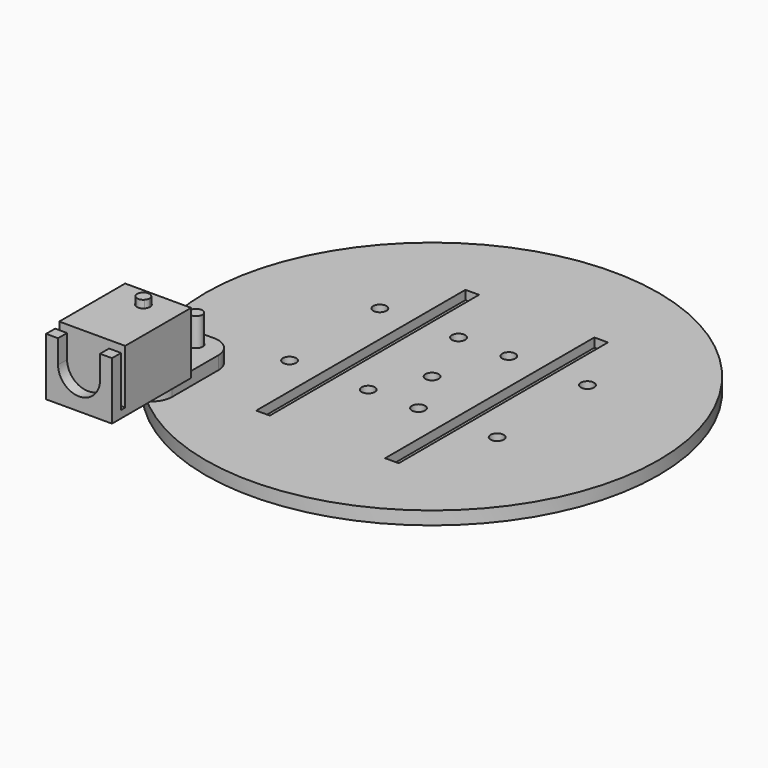
from build123d import *

# Parameters (mm, degrees)
F0_R      = 55
F0_R_2    = 1.6
F0_W      = 3.3
F0_H      = 63.5
F1_DEPTH  = 3.2
F2_DEPTH  = 1
F3_R      = 1.5
F4_DEPTH  = 10
F5_R      = 1.6
F6_DEPTH  = 3.2
F7_R      = 5
F9_DEPTH  = 20
F10_R     = 1.6
F11_DEPTH = 15
F13_DEPTH = 25
F14_R     = 1.6
F15_DEPTH = 8
F17_DEPTH = 2.75


with BuildPart() as f1:
    # F0 (on Top) → F1 (new body)
    with BuildSketch(Plane.XY):
        with Locations((39.351791, 117.438398)):
            Circle(F0_R)
        with Locations((0, 95.013872)):
            Circle(F0_R_2, mode=Mode.SUBTRACT)
        with Locations((23.701791, 117.438398)):
            Rectangle(F0_W, F0_H, mode=Mode.SUBTRACT)
        with Locations((39.351791, 117.438398)):
            Circle(F0_R_2, mode=Mode.SUBTRACT)
        with Locations((55.001791, 117.438398)):
            Rectangle(F0_W, F0_H, mode=Mode.SUBTRACT)
    extrude(amount=F1_DEPTH)

    # F0 (on Top) → F2 (join)
    with BuildSketch(Plane.XY):
        with Locations((23.701791, 117.438398)):
            Rectangle(F0_W, F0_H)
        with Locations((55.001791, 117.438398)):
            Rectangle(F0_W, F0_H)
    extrude(amount=F2_DEPTH)

    # F14 (on face) → F15 (cut)
    with BuildSketch(Plane.XY.offset(3.2)):
        with Locations((64.551791, 105.688398)):
            Circle(F14_R)
        with Locations((64.551791, 133.088398)):
            Circle(F14_R)
        with Locations((45.451791, 133.088398)):
            Circle(F14_R)
        with Locations((45.451791, 105.688398)):
            Circle(F14_R)
        with Locations((33.251791, 105.688398)):
            Circle(F14_R)
        with Locations((33.251791, 133.088398)):
            Circle(F14_R)
        with Locations((14.151791, 133.088398)):
            Circle(F14_R)
        with Locations((14.151791, 105.688398)):
            Circle(F14_R)
    extrude(amount=-F15_DEPTH, mode=Mode.SUBTRACT)


with BuildPart() as f4:
    # F3 (on face) → F4 (new body)
    with BuildSketch(Plane.XY.offset(3.2)):
        with Locations((0, 95.013872)):
            Circle(F3_R)
    extrude(amount=F4_DEPTH)


with BuildPart() as f6:
    # F5 (on face) → F6 (new body)
    with BuildSketch(Plane.XY.offset(3.2)):
        with BuildLine():
            ThreePointArc((-1.101032, 80.174889), (-3.605473, 83.092024), (-5.9, 86.176994))
            Line((-5.9, 86.176994), (-5.9, 75.113872))
            Line((-5.9, 75.113872), (4.228658, 75.113872))
            ThreePointArc((4.228658, 75.113872), (2.655319, 76.470497), (1.134335, 77.885573))
            ThreePointArc((1.134335, 77.885573), (-1.144779, 77.896171), (-1.101032, 80.174889))
        make_face()
        with BuildLine():
            Line((6.1, 99.113872), (-5.9, 99.113872))
            Line((-5.9, 99.113872), (-5.9, 86.176994))
            ThreePointArc((-5.9, 86.176994), (-3.605473, 83.092024), (-1.101032, 80.174889))
            ThreePointArc((-1.101032, 80.174889), (0.631803, 80.483947), (1.6, 79.013972))
            ThreePointArc((1.6, 79.013972), (1.479009, 78.403618), (1.134335, 77.885573))
            ThreePointArc((1.134335, 77.885573), (2.655319, 76.470497), (4.228658, 75.113872))
            Line((4.228658, 75.113872), (6.1, 75.113872))
            Line((6.1, 75.113872), (6.1, 99.113872))
        make_face()
        with Locations((0, 95.013872)):
            Circle(F5_R, mode=Mode.SUBTRACT)
    extrude(amount=F6_DEPTH)

    # F7
    f7_edges = [f6.edges().sort_by_distance(p)[0] for p in [
        (-5.9, 99.113872, 4.8),
        (6.1, 99.113872, 4.8),
        (6.1, 75.113872, 4.8),
        (-5.9, 75.113872, 4.8),
    ]]
    fillet(f7_edges, radius=F7_R)


with BuildPart() as f9:
    # F8 (on face) → F9 (new body)
    with BuildSketch(Plane.XY.offset(3.2)):
        with BuildLine():
            ThreePointArc((1.061891, 77.955699), (1.385737, 78.441707), (1.499431, 79.014555))
            ThreePointArc((1.499431, 79.014555), (0.591129, 80.392921), (-1.03376, 80.101991))
            ThreePointArc((-1.03376, 80.101991), (-0.000569, 79.014555), (1.061891, 77.955699))
        make_face()
        with BuildLine():
            ThreePointArc((1.061891, 77.955699), (-0.000569, 79.014555), (-1.03376, 80.101991))
            ThreePointArc((-1.03376, 80.101991), (-1.073815, 77.966632), (1.061891, 77.955699))
        make_face()
    extrude(amount=F9_DEPTH)


with BuildPart() as f11:
    # F10 (on face) → F11 (new body)
    with BuildSketch(Plane.XY.offset(6.4)):
        with BuildLine():
            Line((-5.9, 83.613972), (-8.1, 83.613972))
            Line((-8.1, 83.613972), (-8.1, 59.613972))
            Line((-8.1, 59.613972), (7.9, 59.613972))
            Line((7.9, 59.613972), (7.9, 83.613972))
            Line((7.9, 83.613972), (6.1, 83.613972))
            Line((6.1, 83.613972), (6.1, 80.113872))
            ThreePointArc((6.1, 80.113872), (4.635534, 76.578338), (1.1, 75.113872))
            Line((1.1, 75.113872), (-0.9, 75.113872))
            ThreePointArc((-0.9, 75.113872), (-4.435534, 76.578338), (-5.9, 80.113872))
            Line((-5.9, 80.113872), (-5.9, 83.613972))
        make_face()
        with BuildLine():
            Line((6.1, 83.613972), (-5.9, 83.613972))
            Line((-5.9, 83.613972), (-5.9, 80.113872))
            ThreePointArc((-5.9, 80.113872), (-4.435534, 76.578338), (-0.9, 75.113872))
            Line((-0.9, 75.113872), (1.1, 75.113872))
            ThreePointArc((1.1, 75.113872), (4.635534, 76.578338), (6.1, 80.113872))
            Line((6.1, 80.113872), (6.1, 83.613972))
        make_face()
        with Locations((0, 79.013972)):
            Circle(F10_R, mode=Mode.SUBTRACT)
    extrude(amount=F11_DEPTH)

    # F12 (on face) → F13 (cut)
    with BuildSketch(Plane.YZ.offset(7.9)):
        Polygon((63.613972, 21.4), (59.613972, 21.4), (59.613972, 20.4), (62.363972, 20.4), (62.363972, 8.205), (63.613972, 8.205), align=None)
    extrude(amount=-F13_DEPTH, mode=Mode.SUBTRACT)

    # F16 (on face) → F17 (cut)
    with BuildSketch(Plane.XZ.offset(-59.613972)):
        with BuildLine():
            Line((-5.2, 20.4), (-5.2, 14.7))
            ThreePointArc((-5.2, 14.7), (-0.100056, 9.62396), (4.999887, 14.7))
            Line((4.999887, 14.7), (4.999887, 20.4))
            Line((4.999887, 20.4), (-5.2, 20.4))
        make_face()
    extrude(amount=-F17_DEPTH, mode=Mode.SUBTRACT)


solid = Compound([f1.part, f4.part, f6.part, f9.part, f11.part])
